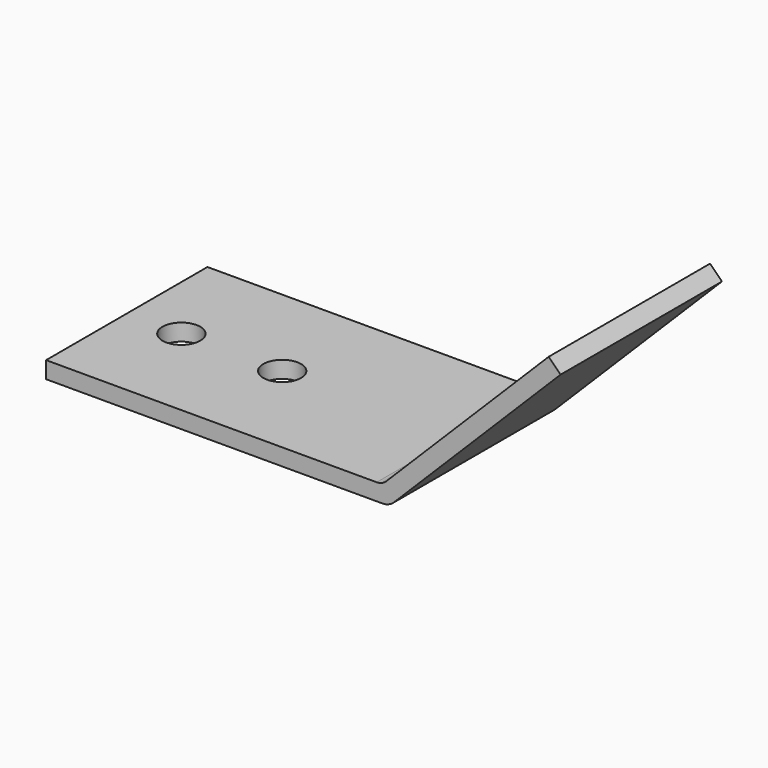
from build123d import *

# Parameters (mm, degrees)
F1_DEPTH = 76.2
F2_R     = 5.08
F3_R     = 6.35
F4_R     = 7.14375
F5_DEPTH = 25.4


with BuildPart() as f1:
    # F0 (on Front) → F1 (new body)
    with BuildSketch(Plane.XZ):
        Polygon((-127, 0), (0, 0), (2.630256, 0), (4.490128, 1.859872), (67.351921, 64.721665), (62.861793, 69.211793), (0, 6.35), (-127, 6.35), align=None)
    extrude(amount=F1_DEPTH)

    # F2
    f2_edges = [f1.edges().sort_by_distance(p)[0] for p in [
        (0, -38.1, 6.35),
    ]]
    fillet(f2_edges, radius=F2_R)

    # F3
    f3_edges = [f1.edges().sort_by_distance(p)[0] for p in [
        (2.630256, -38.1, 0),
    ]]
    fillet(f3_edges, radius=F3_R)

    # F4 (on face) → F5 (cut)
    with BuildSketch(Plane.XY.offset(6.35)):
        with Locations((-106.3752, -38.1)):
            Circle(F4_R)
        with Locations((-68.2752, -38.1)):
            Circle(F4_R)
    extrude(amount=-F5_DEPTH, mode=Mode.SUBTRACT)


solid = f1.part
